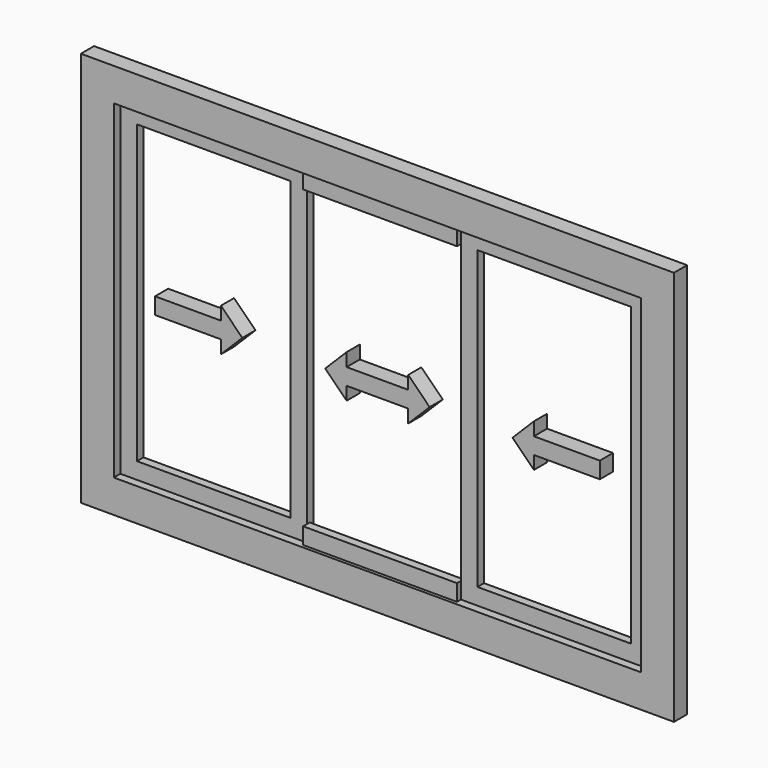
from build123d import *

# Parameters (mm, degrees)
F0_W      = 914.4
F0_H      = 609.6
F0_W_2    = 812.8
F0_H_2    = 508
F1_DEPTH  = 25.4
F2_W      = 287.782
F2_H      = 508
F2_W_2    = 236.982
F2_H_2    = 457.2
F3_DEPTH  = 12.7
F5_DEPTH  = 25.4
F7_DEPTH  = 25.4
F9_W      = 237.236
F9_H      = 25.4
F10_DEPTH = 12.7


with BuildPart() as f1:
    # F0 (on Front) → F1 (new body)
    with BuildSketch(Plane.XZ):
        Rectangle(F0_W, F0_H)
        Rectangle(F0_W_2, F0_H_2, mode=Mode.SUBTRACT)
    extrude(amount=F1_DEPTH)

    # F2 (on Front) → F3 (join)
    with BuildSketch(Plane.XZ):
        with Locations((-262.509, 0)):
            Rectangle(F2_W, F2_H)
        with Locations((-262.509, 0)):
            Rectangle(F2_W_2, F2_H_2, mode=Mode.SUBTRACT)
        with Locations((262.509, 0)):
            Rectangle(F2_W, F2_H)
        with Locations((262.509, 0)):
            Rectangle(F2_W_2, F2_H_2, mode=Mode.SUBTRACT)
    extrude(amount=F3_DEPTH)

    # F9 (on offset) → F10 (join)
    with BuildSketch(Plane.XZ.offset(7.62)):
        with Locations((0, 241.3)):
            Rectangle(F9_W, F9_H)
        with Locations((0, -241.3)):
            Rectangle(F9_W, F9_H)
    extrude(amount=F10_DEPTH)


with BuildPart() as f5:
    # F4 (on Front) → F5 (new body)
    with BuildSketch(Plane.XZ):
        Polygon((-241.3, -33.02), (-208.28, 0), (-241.3, 33.02), (-241.3, 12.7), (-342.9, 12.7), (-342.9, -12.7), (-241.3, -12.7), align=None)
    extrude(amount=F5_DEPTH)


with BuildPart() as f5b:
    # F4 (on Front) → F5, piece 2 (new body)
    with BuildSketch(Plane.XZ):
        Polygon((0, 12.7), (-47.498, 12.7), (-47.498, 33.02), (-80.518, 0), (-47.498, -33.02), (-47.498, -12.7), (0, -12.7), (47.498, -12.7), (47.498, -33.02), (80.518, 0), (47.498, 33.02), (47.498, 12.7), align=None)
    extrude(amount=F5_DEPTH)


with BuildPart() as f6_1:
    # F6: instance of F5
    add(f5.part.mirror(Plane.YZ))


with BuildPart() as f7:
    # F4 (on Front) → F7 (new body)
    with BuildSketch(Plane.XZ):
        Polygon((-241.3, -33.02), (-208.28, 0), (-241.3, 33.02), (-241.3, 12.7), (-342.9, 12.7), (-342.9, -12.7), (-241.3, -12.7), align=None)
    extrude(amount=F7_DEPTH)


with BuildPart() as f7b:
    # F4 (on Front) → F7, piece 2 (new body)
    with BuildSketch(Plane.XZ):
        Polygon((0, 12.7), (-47.498, 12.7), (-47.498, 33.02), (-80.518, 0), (-47.498, -33.02), (-47.498, -12.7), (0, -12.7), (47.498, -12.7), (47.498, -33.02), (80.518, 0), (47.498, 33.02), (47.498, 12.7), align=None)
    extrude(amount=F7_DEPTH)


solid = Compound([f1.part, f5.part, f5b.part, f6_1.part, f7.part, f7b.part])
